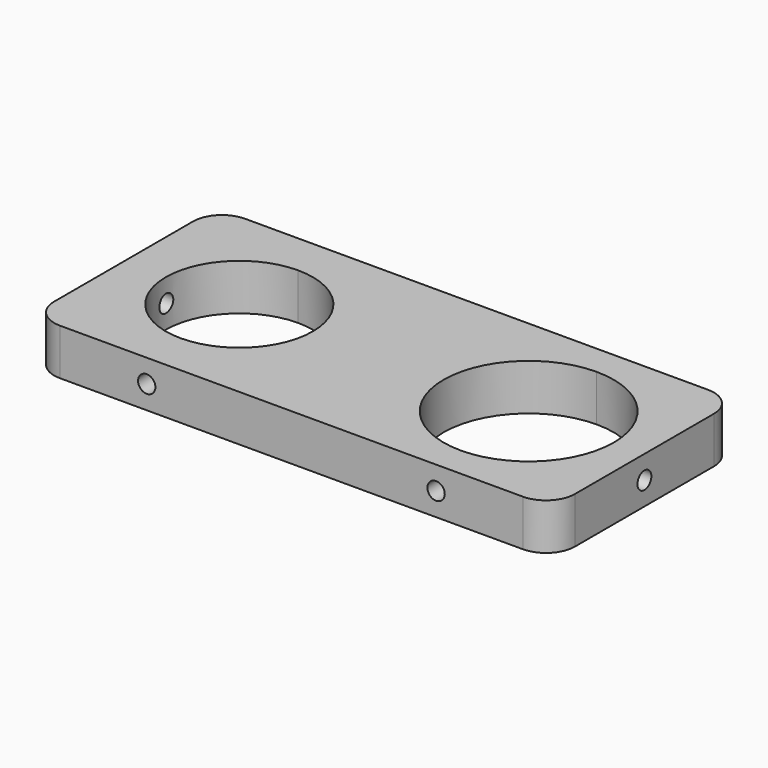
from build123d import *

# Parameters (mm, degrees)
F1_DEPTH = 8
F2_R     = 1.5
F3_DEPTH = 25
F4_R     = 1.5
F5_DEPTH = 25
F6_START = 54.3
F6_DEPTH = 27.9
F7_R     = 5


with BuildPart() as f1:
    # F0 (on Top) → F1 (new body)
    with BuildSketch(Plane.XY):
        with BuildLine():
            ThreePointArc((0, 12.7), (8.9802561211, 8.9802561211), (12.7, 0))
            ThreePointArc((12.7, 0), (8.9802561211, -8.9802561211), (0, -12.7))
            Line((0, -12.7), (0, -20))
            Line((0, -20), (50, -20))
            Line((50, -20), (50, -14.7))
            ThreePointArc((50, -14.7), (35.3, 0), (50, 14.7))
            Line((50, 14.7), (50, 20))
            Line((50, 20), (0, 20))
            Line((0, 20), (0, 12.7))
        make_face()
        with BuildLine():
            ThreePointArc((0, -12.7), (-12.7, 0), (0, 12.7))
            Line((0, 12.7), (0, 20))
            Line((0, 20), (-20, 20))
            Line((-20, 20), (-20, -20))
            Line((-20, -20), (0, -20))
            Line((0, -20), (0, -12.7))
        make_face()
        with BuildLine():
            ThreePointArc((0, 12.7), (8.9802561211, 8.9802561211), (12.7, 0))
            ThreePointArc((12.7, 0), (8.9802561211, -8.9802561211), (0, -12.7))
            Line((0, -12.7), (0, -20))
            Line((0, -20), (50, -20))
            Line((50, -20), (50, -14.7))
            ThreePointArc((50, -14.7), (35.3, 0), (50, 14.7))
            Line((50, 14.7), (50, 20))
            Line((50, 20), (0, 20))
            Line((0, 20), (0, 12.7))
        make_face()
        with BuildLine():
            ThreePointArc((0, 12.7), (8.9802561211, 8.9802561211), (12.7, 0))
            ThreePointArc((12.7, 0), (8.9802561211, -8.9802561211), (0, -12.7))
            Line((0, -12.7), (0, -20))
            Line((0, -20), (50, -20))
            Line((50, -20), (50, -14.7))
            ThreePointArc((50, -14.7), (35.3, 0), (50, 14.7))
            Line((50, 14.7), (50, 20))
            Line((50, 20), (0, 20))
            Line((0, 20), (0, 12.7))
        make_face()
        with BuildLine():
            Line((70, 20), (50, 20))
            Line((50, 20), (50, 14.7))
            ThreePointArc((50, 14.7), (60.3944696834, 10.3944696834), (64.7, 0))
            ThreePointArc((64.7, 0), (60.3944696834, -10.3944696834), (50, -14.7))
            Line((50, -14.7), (50, -20))
            Line((50, -20), (70, -20))
            Line((70, -20), (70, 20))
        make_face()
    extrude(amount=F1_DEPTH)

    # F2 (on Front) → F3 (cut)
    with BuildSketch(Plane.XZ):
        with Locations((0, 4)):
            Circle(F2_R)
        with Locations((50, 4)):
            Circle(F2_R)
    extrude(amount=F3_DEPTH, mode=Mode.SUBTRACT)

    # F4 (on Right) → F5 (cut)
    with BuildSketch(Plane.YZ):
        with Locations((0, 4)):
            Circle(F4_R)
    extrude(amount=-F5_DEPTH, mode=Mode.SUBTRACT)

    # F4 (on Right) → F6 (cut)
    with BuildSketch(Plane.YZ.offset(F6_START)):
        with Locations((0, 4)):
            Circle(F4_R)
    extrude(amount=F6_DEPTH, mode=Mode.SUBTRACT)

    # F7
    f7_edges = [f1.edges().sort_by_distance(p)[0] for p in [
        (70, 20, 4),
        (70, -20, 4),
        (-20, 20, 4),
        (-20, -20, 4),
    ]]
    fillet(f7_edges, radius=F7_R)


solid = f1.part
